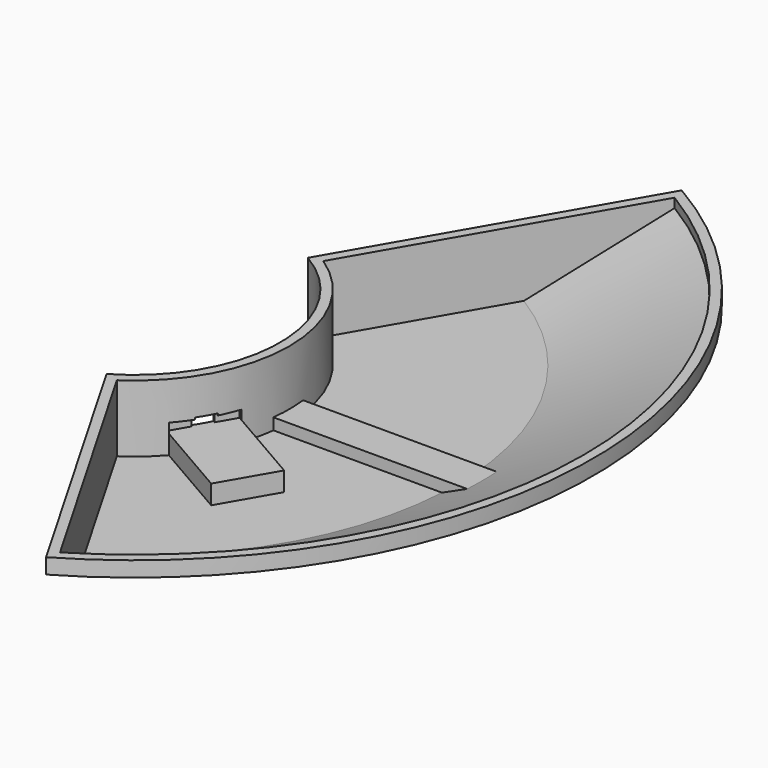
from build123d import *

# Parameters (mm, degrees)
F2_ANGLE_BACK = 60
F2_ANGLE      = 120
F3_W          = 160
F3_H          = 4.7
F4_DEPTH      = 3
F5_T          = -2.5
F7_DEPTH      = 5
F8_W          = 5
F8_H          = 3
F9_DEPTH      = 99.0080415552
F10_W         = 16
F10_H         = 2.5
F11_DEPTH     = 25


with BuildPart() as f2:
    # F0 (on Front) → F2 (revolve)
    with BuildSketch(Plane.XZ, mode=Mode.PRIVATE) as f2_sk:
        Polygon((38, 20), (38, 0), (85, 0), (120, 16), (120, 20), align=None)
    revolve(f2_sk.sketch.rotate(Axis((0, 0, 35.0643768907), (0, 0, 1)), -F2_ANGLE_BACK), axis=Axis((0, 0, 35.0643768907), (0, 0, 1)), revolution_arc=F2_ANGLE)

    # F3 (on Top) → F4 (cut)
    with BuildSketch(Plane.XY):
        with Locations((80, 0)):
            Rectangle(F3_W, F3_H)
    extrude(amount=F4_DEPTH, mode=Mode.SUBTRACT)

    # F5
    f5_openings = [f2.faces().sort_by_distance(p)[0] for p in [
        (71.198195, 0, 20),
    ]]
    offset(amount=F5_T, openings=f5_openings, kind=Kind.INTERSECTION)

    # F6 (on face) → F7 (join)
    with BuildSketch(Plane.XY.offset(2.5)):
        with BuildLine():
            ThreePointArc((30.3829536253, -26.7792107614), (35.0740288533, -20.25), (38.3829536253, -12.9228043008))
            Line((38.3829536253, -12.9228043008), (37.3419780457, -12.3217967697))
            Line((37.3419780457, -12.3217967697), (29.3419780457, -26.1782032303))
            Line((29.3419780457, -26.1782032303), (30.3829536253, -26.7792107614))
        make_face()
        with BuildLine():
            Line((58.9926131403, -24.8217967697), (38.3829536253, -12.9228043008))
            ThreePointArc((38.3829536253, -12.9228043008), (35.0740288533, -20.25), (30.3829536253, -26.7792107614))
            Line((30.3829536253, -26.7792107614), (50.9926131403, -38.6782032303))
            Line((50.9926131403, -38.6782032303), (58.9926131403, -24.8217967697))
        make_face()
    extrude(amount=F7_DEPTH)

    # F8 (on face) → F9 (cut, through all)
    with BuildSketch(Plane(origin=(54.9926131403, -31.75, 0), x_dir=(0.5, 0.8660254038, 0), z_dir=(0.8660254038, -0.5, 0))):
        with Locations((0, 9)):
            Rectangle(F8_W, F8_H)
    extrude(amount=-F9_DEPTH, mode=Mode.SUBTRACT)

    # F10 (on face) → F11 (cut)
    with BuildSketch(Plane(origin=(54.9926131403, -31.75, 0), x_dir=(0.5, 0.8660254038, 0), z_dir=(0.8660254038, -0.5, 0))):
        with Locations((0, 8.75)):
            Rectangle(F10_W, F10_H)
    extrude(amount=-F11_DEPTH, mode=Mode.SUBTRACT)


solid = f2.part
